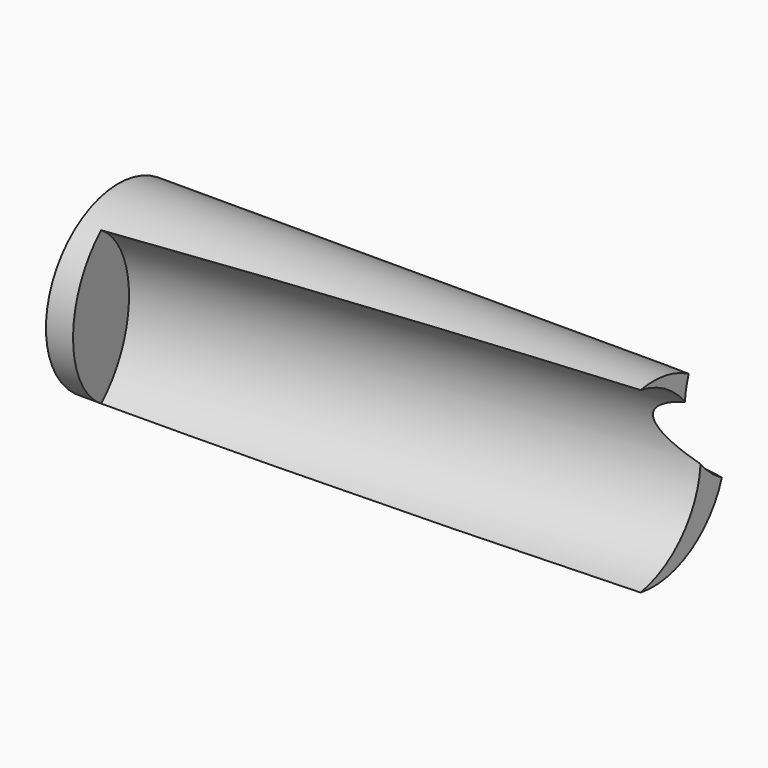
from build123d import *

# Parameters (mm, degrees)
F0_R      = 15.707536
F1_DEPTH  = 92.8
F6_ANGLE  = -7.309847
F10_ANGLE = 11


with BuildPart() as f1:
    # F0 (on Right) → F1 (new body)
    with BuildSketch(Plane.YZ):
        with Locations((-37.135664, 18.661138)):
            Circle(F0_R)
    extrude(amount=F1_DEPTH)


with BuildPart() as f2_1:
    # F2: copy of F1
    add(f1.part.moved(Location((0, 47.6, 0))))


with BuildPart() as f3_1:
    # F3: copy of F2_1
    add(f2_1.part.moved(Location((0, 49.9, 0))))


with BuildPart() as f1_1:
    # F4: moved
    add(f1.part.moved(Location((4, 30.2, 0))))


with BuildPart() as f1_2:
    # F6: moved
    add(f1_1.part.rotate(Axis((0, 0, 16.515106), (0, 0, -1)), F6_ANGLE))


with BuildPart() as f3_1_1:
    # F7: moved
    add(f3_1.part.moved(Location((2.4, 0, 0))))


with BuildPart() as f3_1_2:
    # F8: moved
    add(f3_1_1.part.moved(Location((0, -10, 0))))


with BuildPart() as f3_1_3:
    # F9: moved
    add(f3_1_2.part.moved(Location((-0.2, 0, 8.6))))


with BuildPart() as f3_1_4:
    # F10: moved
    add(f3_1_3.part.rotate(Axis((0, 0, 16.515106), (0, 0, -1)), F10_ANGLE))


with BuildPart() as f2_1_1:
    add(f2_1.part)

    # F11: cut F1, F3_1
    add(f1_2.part, mode=Mode.SUBTRACT)
    add(f3_1_4.part, mode=Mode.SUBTRACT)


solid = f2_1_1.part
